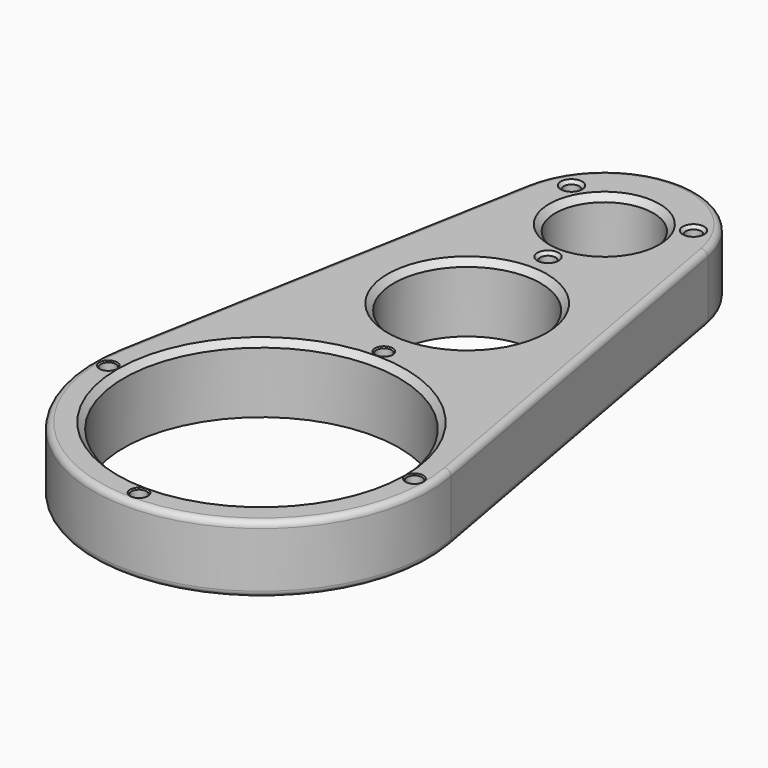
from build123d import *

# Parameters (mm, degrees)
SKETCH001_R     = 22.5
SKETCH001_R_2   = 8
SKETCH001_R_3   = 1.25
SKETCH001_R_4   = 12
PAD_DEPTH       = 11
CHAMFER_SIZE    = 1
CHAMFER001_SIZE = 1
FILLET_R        = 1
FILLET001_R     = 1
CHAMFER002_SIZE = 0.5
CHAMFER003_SIZE = 0.2
CHAMFER004_SIZE = 0.2


with BuildPart() as part:
    # Sketch001 → Pad (new body)
    with BuildSketch(Plane.XY):
        with BuildLine():
            ThreePointArc((176.426018, 287.799835), (161.667114, 300.121263), (146.90821, 287.799835))
            Line((134.609123, 220.031978), (146.90821, 287.799835))
            ThreePointArc((134.609123, 220.031978), (161.667114, 187.621263), (188.725105, 220.031978))
            Line((176.426018, 287.799835), (188.725105, 220.031978))
        make_face()
        with Locations((161.667114, 215.121263)):
            Circle(SKETCH001_R, mode=Mode.SUBTRACT)
        with Locations((161.667114, 285.121263)):
            Circle(SKETCH001_R_2, mode=Mode.SUBTRACT)
        with Locations((171.626406, 290.871263)):
            Circle(SKETCH001_R_3, mode=Mode.SUBTRACT)
        with Locations((161.667114, 273.621263)):
            Circle(SKETCH001_R_3, mode=Mode.SUBTRACT)
        with Locations((151.707822, 290.871263)):
            Circle(SKETCH001_R_3, mode=Mode.SUBTRACT)
        with Locations((161.667114, 240.121263)):
            Circle(SKETCH001_R_3, mode=Mode.SUBTRACT)
        with Locations((186.667114, 215.121263)):
            Circle(SKETCH001_R_3, mode=Mode.SUBTRACT)
        with Locations((161.667114, 190.121263)):
            Circle(SKETCH001_R_3, mode=Mode.SUBTRACT)
        with Locations((136.667114, 215.121263)):
            Circle(SKETCH001_R_3, mode=Mode.SUBTRACT)
        with Locations((161.667114, 257.121263)):
            Circle(SKETCH001_R_4, mode=Mode.SUBTRACT)
    extrude(amount=PAD_DEPTH)

    # Chamfer
    chamfer_edges = [part.edges().sort_by_distance(p)[0] for p in [
        (139.167114, 215.121263, 11),
        (149.667114, 257.121263, 11),
    ]]
    chamfer(chamfer_edges, length=CHAMFER_SIZE)

    # Chamfer001
    chamfer001_edges = [part.edges().sort_by_distance(p)[0] for p in [
        (153.667114, 285.121263, 11),
    ]]
    chamfer(chamfer001_edges, length=CHAMFER001_SIZE)

    # Fillet
    fillet_edges = [part.edges().sort_by_distance(p)[0] for p in [
        (140.758666, 253.915906, 11),
        (161.667114, 300.121263, 11),
        (182.575562, 253.915906, 11),
        (161.667114, 187.621263, 11),
    ]]
    fillet(fillet_edges, radius=FILLET_R)

    # Fillet001
    fillet001_edges = [part.edges().sort_by_distance(p)[0] for p in [
        (140.758666, 253.915906, 0),
        (161.667114, 300.121263, 0),
        (182.575562, 253.915906, 0),
        (161.667114, 187.621263, 0),
    ]]
    fillet(fillet001_edges, radius=FILLET001_R)

    # Chamfer002
    chamfer002_edges = [part.edges().sort_by_distance(p)[0] for p in [
        (170.376406, 290.871263, 11),
        (160.417114, 273.621263, 11),
        (150.457822, 290.871263, 11),
    ]]
    chamfer(chamfer002_edges, length=CHAMFER002_SIZE)

    # Chamfer003
    chamfer003_edges = [part.edges().sort_by_distance(p)[0] for p in [
        (160.417114, 240.121263, 11),
    ]]
    chamfer(chamfer003_edges, length=CHAMFER003_SIZE)

    # Chamfer004
    chamfer004_edges = [part.edges().sort_by_distance(p)[0] for p in [
        (185.417114, 215.121263, 11),
        (160.417114, 190.121263, 11),
        (135.417114, 215.121263, 11),
    ]]
    chamfer(chamfer004_edges, length=CHAMFER004_SIZE)


solid = part.part
